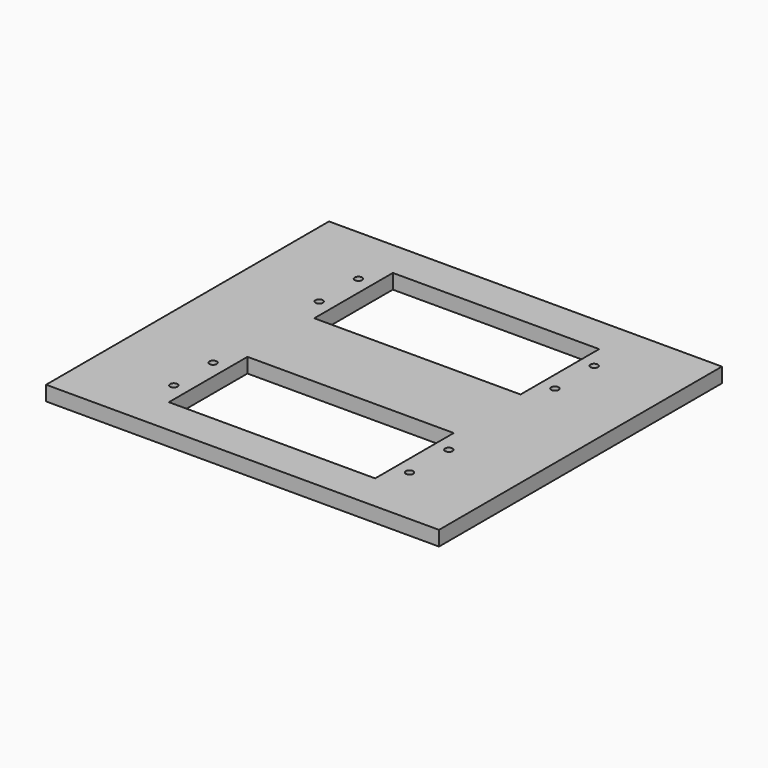
from build123d import *

# Parameters (mm, degrees)
F0_W     = 80
F0_H     = 72
F0_R     = 0.75
F0_W_2   = 42
F0_H_2   = 20
F1_DEPTH = 3


with BuildPart() as f1:
    # F0 (on Top) → F1 (new body)
    with BuildSketch(Plane.XY):
        Rectangle(F0_W, F0_H)
        with Locations((-24, -23.5)):
            Circle(F0_R, mode=Mode.SUBTRACT)
        with Locations((-24, -13.5)):
            Circle(F0_R, mode=Mode.SUBTRACT)
        with Locations((0, -18.5)):
            Rectangle(F0_W_2, F0_H_2, mode=Mode.SUBTRACT)
        with Locations((24, -23.5)):
            Circle(F0_R, mode=Mode.SUBTRACT)
        with Locations((24, -13.5)):
            Circle(F0_R, mode=Mode.SUBTRACT)
        with Locations((-24, 13.5)):
            Circle(F0_R, mode=Mode.SUBTRACT)
        with Locations((-24, 23.5)):
            Circle(F0_R, mode=Mode.SUBTRACT)
        with Locations((24, 13.5)):
            Circle(F0_R, mode=Mode.SUBTRACT)
        with Locations((0, 18.5)):
            Rectangle(F0_W_2, F0_H_2, mode=Mode.SUBTRACT)
        with Locations((24, 23.5)):
            Circle(F0_R, mode=Mode.SUBTRACT)
    extrude(amount=F1_DEPTH)


solid = f1.part
